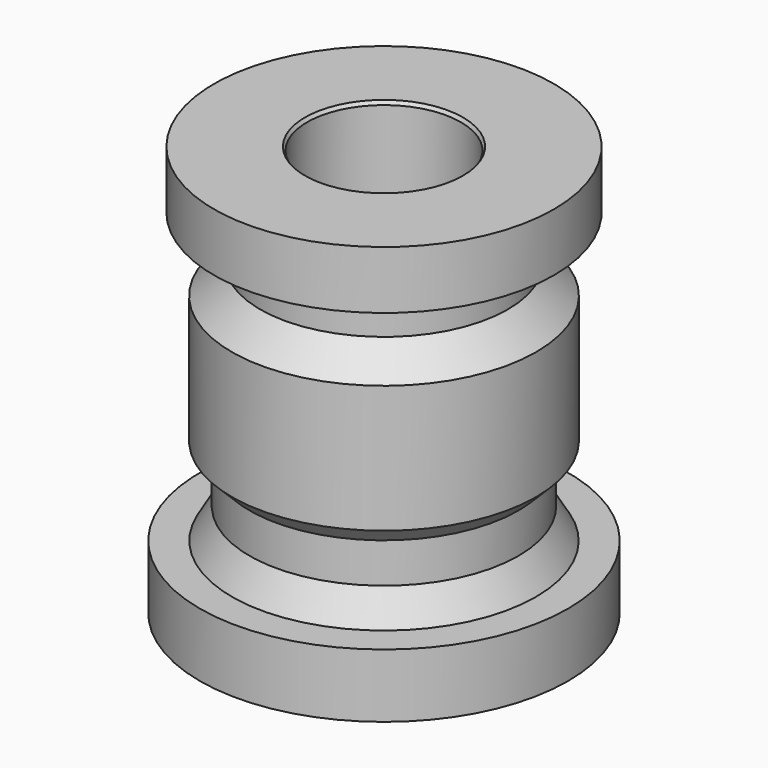
from build123d import *


with BuildPart() as f1:
    # F0 (on Front) → F1 (revolve)
    with BuildSketch(Plane.XZ):
        Polygon((120.65, 127), (120.65, 0), (330.2, 0), (330.2, 114.3), (272.743372, 114.3), (241.3, 168.761519), (241.3, 240.33954), (273.05, 272.08954), (273.05, 500.921316), (222.25, 551.721316), (222.25, 632.46), (304.8, 632.46), (304.8, 736.6), (141.651674, 736.6), (137.9855, 730.25), (137.9855, 520.7), (107.95, 490.6645), (107.95, 139.7), align=None)
    revolve(axis=Axis((0, 0, 258.389268), (0, 0, 1)))


solid = f1.part
